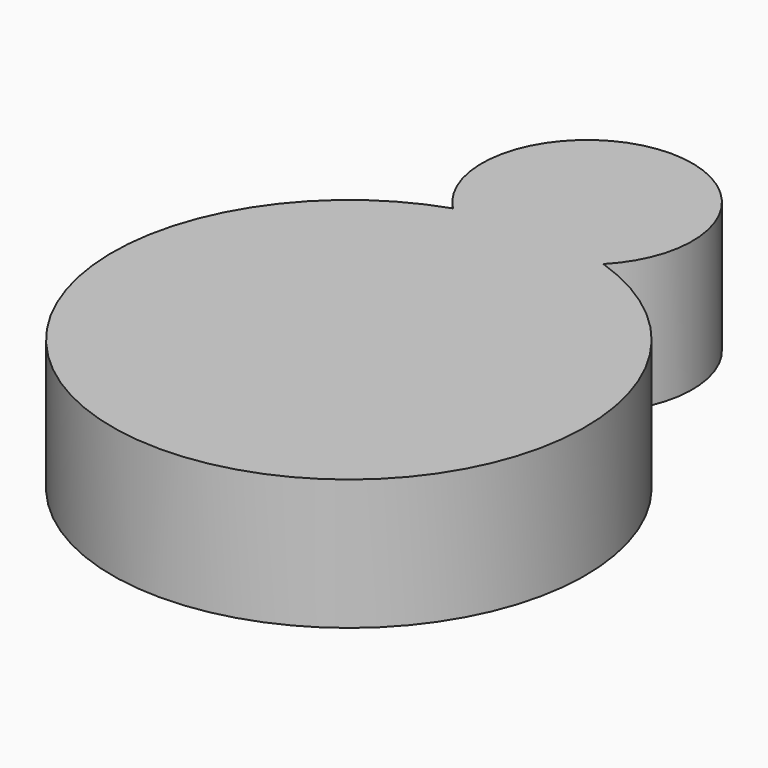
from build123d import *

# Parameters (mm, degrees)
F1_DEPTH   = 49.276
F1_FACE_W  = 39.7166078589
F1_FACE_H  = 49.276
F1_FACE1_W = 89.1782223892
F1_FACE1_H = 49.276


with BuildPart() as f1:
    # F0 (on Top) → F1 (new body)
    with BuildSketch(Plane.XY):
        Polygon((28.3779297024, 27.7867242694), (0, 55.5734485388), (0, -56.7558594048), align=None)
    extrude(amount=F1_DEPTH)

    # F1_face (on face) → F2 (revolve)
    with BuildSketch(Plane(origin=(14.1889648512, 41.6800864041, 24.638), x_dir=(-0.7145104084, 0.6996248111, 0), z_dir=(0.6996248111, 0.7145104084, 0))):
        Rectangle(F1_FACE_W, F1_FACE_H)
    revolve(axis=Axis((0, 55.5734485388, 24.638), (0, 0, -1)))

    # F1_face1 (on face) → F3 (revolve)
    with BuildSketch(Plane(origin=(14.1889648512, -14.4845675677, 24.638), x_dir=(0.3182159157, 0.9480182651, 0), z_dir=(0.9480182651, -0.3182159157, 0))):
        Rectangle(F1_FACE1_W, F1_FACE1_H)
    revolve(axis=Axis((0, -56.7558594048, 24.638), (0, 0, -1)))


solid = f1.part
